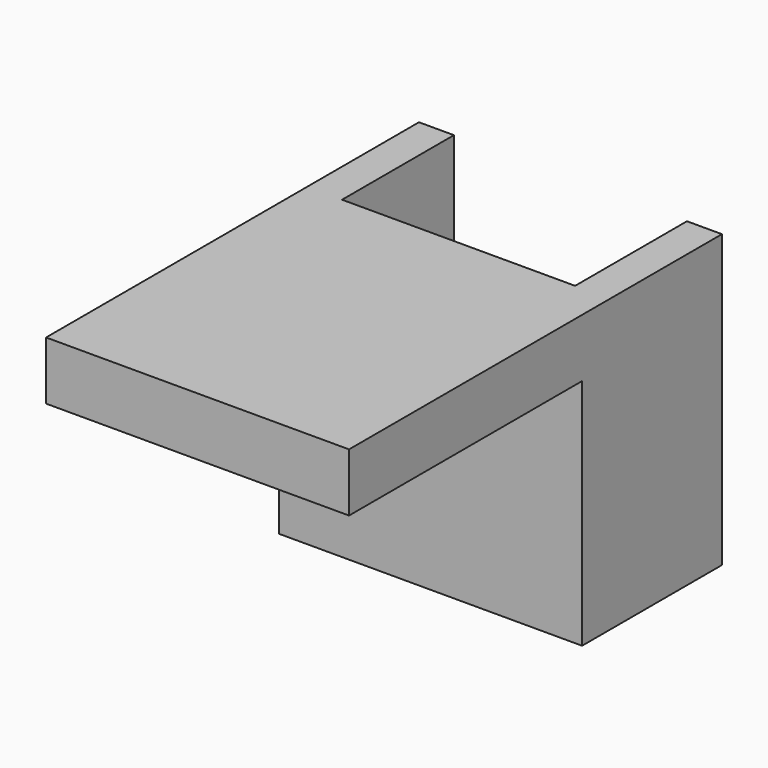
from build123d import *

# Parameters (mm, degrees)
F1_DEPTH = 25
F2_W     = 26
F2_H     = 5
F3_DEPTH = 25


with BuildPart() as f1:
    # F0 (on Top) → F1 (new body)
    with BuildSketch(Plane.XY):
        Polygon((-10, 7.5), (-13, 7.5), (-13, -7.5), (13, -7.5), (13, 7.5), (10, 7.5), (10, -4.5), (-10, -4.5), align=None)
    extrude(amount=F1_DEPTH)

    # F2 (on face) → F3 (join)
    with BuildSketch(Plane.XZ.offset(7.5)):
        with Locations((0, 22.5)):
            Rectangle(F2_W, F2_H)
    extrude(amount=F3_DEPTH)


solid = f1.part
